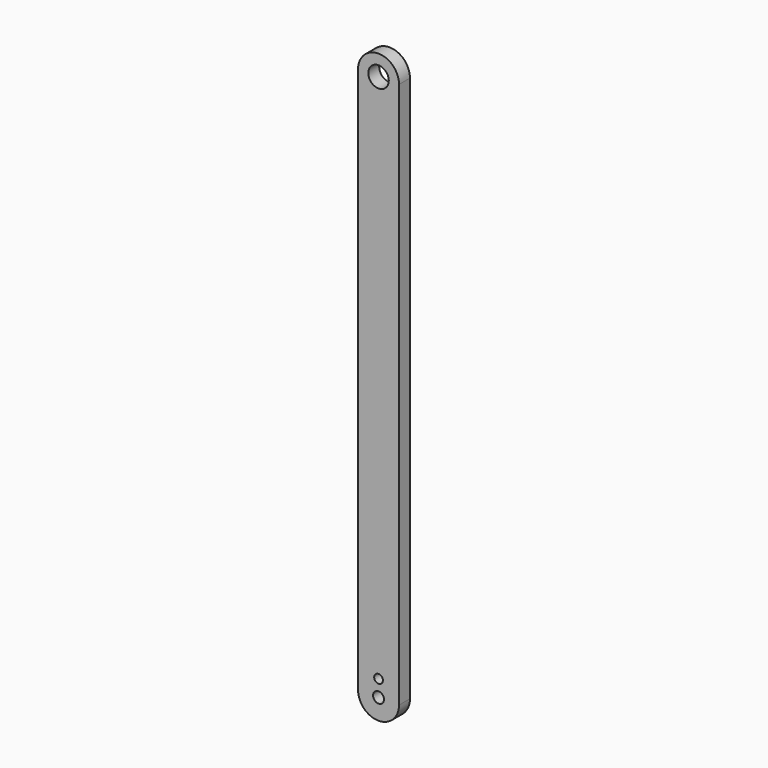
from build123d import *

# Parameters (mm, degrees)
F0_R     = 4
F0_R_2   = 3.2
F0_R_3   = 7.5
F1_DEPTH = 10


with BuildPart() as f1:
    # F0 (on Front) → F1 (new body)
    with BuildSketch(Plane.XZ):
        with BuildLine():
            Line((-15, 400), (-15, 0))
            ThreePointArc((-15, 0), (0, -15), (15, 0))
            Line((15, 0), (15, 400))
            ThreePointArc((15, 400), (0, 415), (-15, 400))
        make_face()
        Circle(F0_R, mode=Mode.SUBTRACT)
        with Locations((0, 12)):
            Circle(F0_R_2, mode=Mode.SUBTRACT)
        with Locations((0, 400)):
            Circle(F0_R_3, mode=Mode.SUBTRACT)
    extrude(amount=F1_DEPTH)


solid = f1.part
